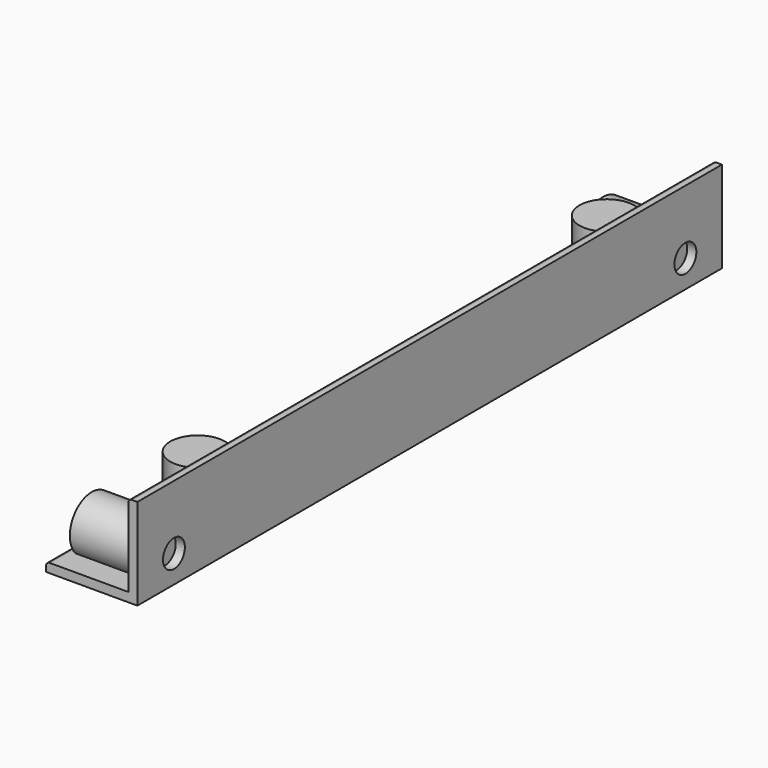
from build123d import *

# Parameters (mm, degrees)
F1_DEPTH = 400
F2_R     = 7.5
F3_DEPTH = 5
F4_R     = 7.5
F5_DEPTH = 5
F6_R     = 15
F7_DEPTH = 40
F8_R     = 15
F9_DEPTH = 40


with BuildPart() as f1:
    # F0 (on Front) → F1 (new body)
    with BuildSketch(Plane.XZ):
        with BuildLine():
            Line((0, 50), (-3, 50))
            ThreePointArc((-3, 50), (-4.414214, 49.414214), (-5, 48))
            Line((-5, 48), (-5, 5))
            Line((-5, 5), (-48, 5))
            ThreePointArc((-48, 5), (-49.414214, 4.414214), (-50, 3))
            Line((-50, 3), (-50, 0))
            Line((-50, 0), (0, 0))
            Line((0, 0), (0, 50))
        make_face()
    extrude(amount=F1_DEPTH)

    # F2 (on face) → F3 (cut, through all)
    with BuildSketch(Plane(origin=(-5, 0, 0), x_dir=(0, -1, 0), z_dir=(-1, 0, 0))):
        with Locations((25, 15)):
            Circle(F2_R)
        with Locations((375, 15)):
            Circle(F2_R)
    extrude(amount=-F3_DEPTH, mode=Mode.SUBTRACT)

    # F4 (on face) → F5 (cut, through all)
    with BuildSketch(Plane.XY.offset(5)):
        with Locations((-15, -60)):
            Circle(F4_R)
        with Locations((-15, -340)):
            Circle(F4_R)
    extrude(amount=-F5_DEPTH, mode=Mode.SUBTRACT)

    # F6 (on face) → F7 (join)
    with BuildSketch(Plane(origin=(-5, 0, 0), x_dir=(0, -1, 0), z_dir=(-1, 0, 0))):
        with Locations((375, 15)):
            Circle(F6_R)
        with Locations((25, 15)):
            Circle(F6_R)
    extrude(amount=F7_DEPTH)

    # F8 (on face) → F9 (join)
    with BuildSketch(Plane.XY.offset(5)):
        with Locations((-15, -340)):
            Circle(F8_R)
        with Locations((-15, -60)):
            Circle(F8_R)
    extrude(amount=F9_DEPTH)


solid = f1.part
